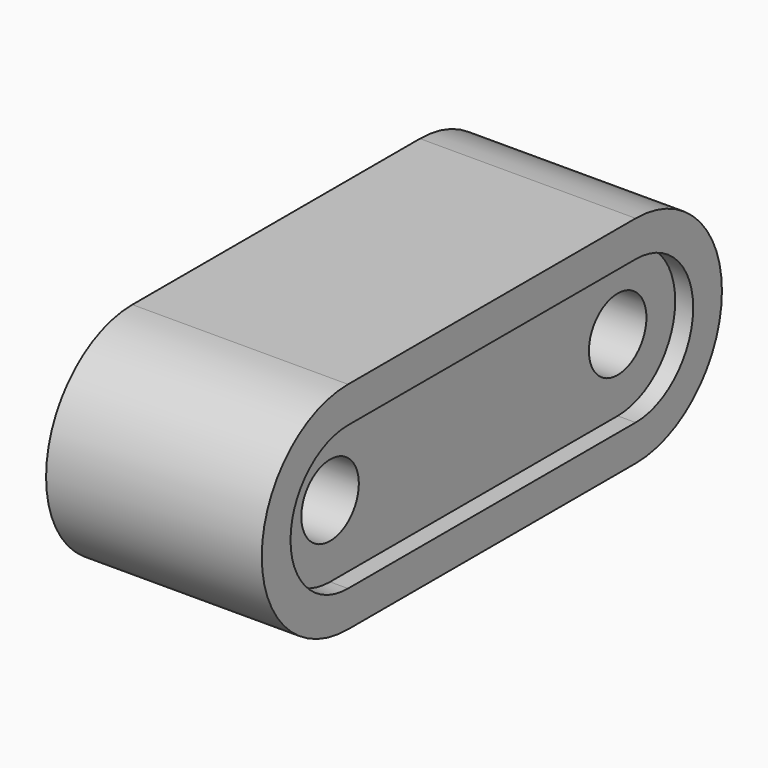
from build123d import *

# Parameters (mm, degrees)
F0_W     = 100
F0_H     = 10
F1_DEPTH = 60
F2_START = 5
F0_H_2   = 40
F2_DEPTH = 50
F3_R     = 10
F4_DEPTH = 55.001


with BuildPart() as f1:
    # F0 (on Right) → F1 (new body)
    with BuildSketch(Plane.YZ):
        with Locations((0, 25)):
            Rectangle(F0_W, F0_H)
        with BuildLine():
            Line((-50, 20), (-50, 30))
            ThreePointArc((-50, 30), (-80, 0), (-50, -30))
            Line((-50, -30), (-50, -20))
            ThreePointArc((-50, -20), (-70, 0), (-50, 20))
        make_face()
        with BuildLine():
            ThreePointArc((50, -30), (80, 0), (50, 30))
            Line((50, 30), (50, 20))
            ThreePointArc((50, 20), (70, 0), (50, -20))
            Line((50, -20), (50, -30))
        make_face()
        with Locations((0, -25)):
            Rectangle(F0_W, F0_H)
    extrude(amount=F1_DEPTH)

    # F0 (on Right) → F2 (join)
    with BuildSketch(Plane.YZ.offset(F2_START)):
        Rectangle(F0_W, F0_H_2)
        with BuildLine():
            ThreePointArc((50, -20), (70, 0), (50, 20))
            Line((50, 20), (50, -20))
        make_face()
        with BuildLine():
            Line((-50, -20), (-50, 20))
            ThreePointArc((-50, 20), (-70, 0), (-50, -20))
        make_face()
    extrude(amount=F2_DEPTH)

    # F3 (on face) → F4 (cut, through all)
    with BuildSketch(Plane.YZ.offset(55)):
        with Locations((-50, 0)):
            Circle(F3_R)
        with Locations((50, 0)):
            Circle(F3_R)
    extrude(amount=-F4_DEPTH, mode=Mode.SUBTRACT)


solid = f1.part
